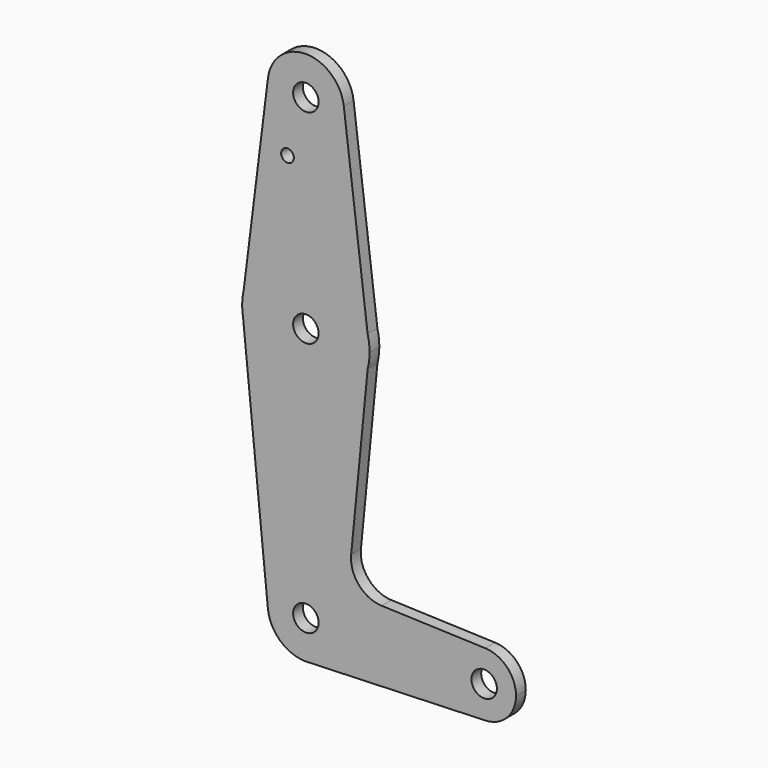
from build123d import *

# Parameters (mm, degrees)
F0_R     = 3.175
F0_R_2   = 1.5875
F1_DEPTH = 3.048


with BuildPart() as f1:
    # F0 (on Front) → F1 (new body)
    with BuildSketch(Plane.XZ):
        with BuildLine():
            ThreePointArc((-36.15809, -19.49892), (-29.904343, -16.471783), (-27.370332, -10.002494))
            ThreePointArc((-27.370332, -10.002494), (-37.369693, -0.489314), (-46.373084, -10.950039))
            ThreePointArc((-46.373084, -10.950039), (-43.309351, -17.044227), (-36.956403, -19.527298))
            Line((-36.956403, -19.527298), (-36.15809, -19.49892))
        make_face()
        with Locations((-36.895332, -10.002494)):
            Circle(F0_R, mode=Mode.SUBTRACT)
        with BuildLine():
            ThreePointArc((-46.373084, -10.950039), (-37.369693, -0.489314), (-27.370332, -10.002494))
            ThreePointArc((-27.370332, -10.002494), (-29.904343, -16.471783), (-36.15809, -19.49892))
            Line((-36.15809, -19.49892), (7.836654, -17.934984))
            ThreePointArc((7.836654, -17.934984), (-0.382832, -10.002285), (7.837073, -2.07002))
            Line((7.837073, -2.07002), (-17.977255, -1.151))
            ThreePointArc((-17.977255, -1.151), (-23.677326, 1.558687), (-25.606862, 7.567855))
            Line((-25.606862, 7.567855), (-21.490999, 49.660564))
            ThreePointArc((-21.490999, 49.660564), (-37.529721, 37.635186), (-52.556883, 50.902996))
            Line((-52.556883, 50.902996), (-46.373084, -10.950039))
        make_face()
        with BuildLine():
            ThreePointArc((-36.956403, -19.527298), (-36.556949, -19.521482), (-36.15809, -19.49892))
            Line((-36.15809, -19.49892), (-36.956403, -19.527298))
        make_face()
        with BuildLine():
            ThreePointArc((-52.76252, 53.99549), (-52.735352, 52.444212), (-52.556883, 50.902996))
            ThreePointArc((-52.556883, 50.902996), (-37.529721, 37.635186), (-21.490999, 49.660564))
            ThreePointArc((-21.490999, 49.660564), (-21.138439, 51.564655), (-21.020333, 53.497506))
            Line((-21.020333, 53.497506), (-21.497878, 57.361962))
            ThreePointArc((-21.497878, 57.361962), (-37.128039, 69.3708), (-52.399454, 56.908937))
            Line((-52.399454, 56.908937), (-52.76252, 53.99549))
        make_face()
        with Locations((-36.895333, 53.497506)):
            Circle(F0_R, mode=Mode.SUBTRACT)
        with BuildLine():
            ThreePointArc((7.837073, -2.07002), (-0.382832, -10.002285), (7.836654, -17.934984))
            ThreePointArc((7.836654, -17.934984), (13.266155, -15.514556), (15.492168, -10.002494))
            ThreePointArc((15.492168, -10.002494), (13.2663, -4.490584), (7.837073, -2.07002))
        make_face()
        with Locations((7.554668, -10.002494)):
            Circle(F0_R, mode=Mode.SUBTRACT)
        with BuildLine():
            ThreePointArc((-52.399454, 56.908937), (-52.648484, 55.460625), (-52.76252, 53.99549))
            Line((-52.76252, 53.99549), (-52.399454, 56.908937))
        make_face()
        with BuildLine():
            Line((-46.347223, 105.475377), (-52.399454, 56.908937))
            ThreePointArc((-52.399454, 56.908937), (-37.128039, 69.3708), (-21.497878, 57.361962))
            Line((-21.497878, 57.361962), (-27.442236, 105.465661))
            ThreePointArc((-27.442236, 105.465661), (-27.388325, 104.882689), (-27.370332, 104.297506))
            ThreePointArc((-27.370332, 104.297506), (-37.485401, 94.790801), (-46.347223, 105.475377))
        make_face()
        with Locations((-41.476943, 90.022706)):
            Circle(F0_R_2, mode=Mode.SUBTRACT)
        with BuildLine():
            Line((-21.497878, 57.361962), (-21.020333, 53.497506))
            ThreePointArc((-21.020333, 53.497506), (-21.140171, 55.444431), (-21.497878, 57.361962))
        make_face()
        with BuildLine():
            ThreePointArc((-27.442236, 105.465661), (-36.890437, 113.822504), (-46.347223, 105.475377))
            ThreePointArc((-46.347223, 105.475377), (-37.485401, 94.790801), (-27.370332, 104.297506))
            ThreePointArc((-27.370332, 104.297506), (-27.388325, 104.882689), (-27.442236, 105.465661))
        make_face()
        with Locations((-36.895332, 104.297506)):
            Circle(F0_R, mode=Mode.SUBTRACT)
    extrude(amount=F1_DEPTH)


solid = f1.part
